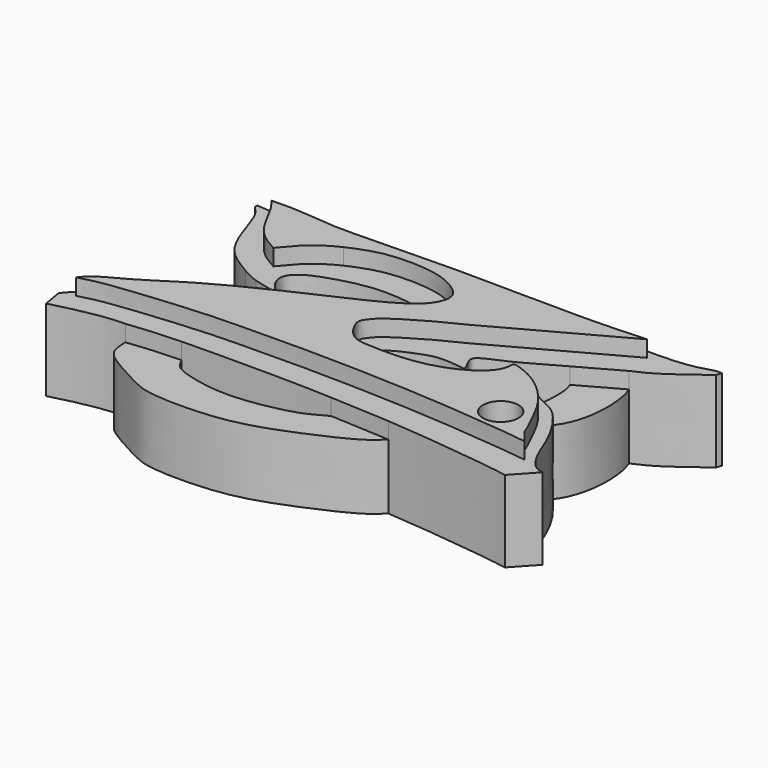
from build123d import *

# Parameters (mm, degrees)
F1_DEPTH = 4
F2_DEPTH = 5
F4_DEPTH = 1
F5_R     = 1.0894578336
F6_DEPTH = 25


with BuildPart() as f1:
    # F0 (on Top) → F1 (new body)
    with BuildSketch(Plane.XY):
        with BuildLine():
            add(Edge.make_bspline(
                [(13.5833919048, 13.3484508842), (13.8571784654, 13.1897348919), (14.1672854841, 13.0099636748), (14.5812343972, 12.8688075387), (14.6309965181, 12.852750787)],
                knots=[0, 0, 0, 0, 0.4341854473, 0.4917843823, 0.4917843823, 0.4917843823, 0.4917843823], degree=3))
            add(Edge.make_bspline(
                [(13.5833919048, 13.3484508842), (13.4404073522, 13.1196457003), (13.1171991231, 12.6024449468), (12.51469385, 11.4028693908), (11.9733802821, 10.0611704595), (12.055718564, 9.3237222113), (12.0936380699, 8.9841028675)],
                knots=[0, 0, 0, 0, 0.2144097452, 0.484660705, 0.7626691858, 1, 1, 1, 1], degree=3))
            add(Edge.make_bspline(
                [(13.8538191095, 10.0085521117), (13.4043243658, 9.7697229673), (12.7489812178, 9.3769129174), (12.0936380699, 8.9841028675)],
                knots=[0.7391911262, 0.7391911262, 0.7391911262, 0.7391911262, 1, 1, 1, 1], degree=3))
            add(Edge.make_bspline(
                [(14.6309965181, 12.852750787), (14.5147707877, 12.6443301613), (14.2737787368, 12.214243931), (13.9709315069, 11.4361729845), (13.7381038118, 10.6371165654), (13.8170437686, 10.2082729303), (13.8538191095, 10.0085521117)],
                knots=[0, 0, 0, 0, 0.2458196727, 0.5112106111, 0.7725679078, 1, 1, 1, 1], degree=3))
        make_face()
    extrude(amount=F1_DEPTH)


with BuildPart() as f1b:
    # F0 (on Top) → F1, piece 2 (new body)
    with BuildSketch(Plane.XY):
        with BuildLine():
            add(Edge.make_bspline(
                [(12.5342691317, 5.4380693473), (13.2624299696, 5.5157233982), (14.2366750689, 5.6196208816), (15.4707894642, 5.6685069834), (15.7955858834, 5.6781713294)],
                knots=[0, 0, 0, 0, 0.1920602096, 0.2569675658, 0.2569675658, 0.2569675658, 0.2569675658], degree=3))
            add(Edge.make_bspline(
                [(12.5342691317, 5.4380693473), (12.5473590633, 5.0487256747), (12.5744306327, 4.243515638), (13.6653424621, 3.4645969357), (15.405553555, 2.5501869179), (16.6725208426, 1.9027207111), (20.9150965242, 1.9103639068), (23.6959030646, 2.7629959679), (26.0404997009, 3.7579135097), (27.8179535983, 4.6222148773), (28.4266237097, 5.1852906368), (28.6907535046, 5.4296349576)],
                knots=[0, 0, 0, 0, 0.0836005985, 0.1728961987, 0.282858145, 0.3786516168, 0.5389406904, 0.678227619, 0.8043732684, 0.9151086154, 1, 1, 1, 1], degree=3))
            add(Edge.make_bspline(
                [(25.0162748018, 5.6213857477), (26.2397122437, 5.5698292426), (27.4652328742, 5.4997321001), (28.6907535046, 5.4296349576)],
                knots=[0.7941828335, 0.7941828335, 0.7941828335, 0.7941828335, 1, 1, 1, 1], degree=3))
            add(Edge.make_bspline(
                [(15.7955858834, 5.6781713294), (15.9101969297, 5.450781957), (16.1508127503, 4.9482455043), (17.150077641, 4.6173420255), (18.6333297992, 4.2408185955), (20.6405193314, 4.2473489687), (22.3654092464, 4.5651575134), (23.8264108136, 4.9299273525), (24.6217717213, 5.4205719877), (25.0162748018, 5.6213857477)],
                knots=[0, 0, 0, 0, 0.105658755, 0.225607729, 0.3766633567, 0.5491181485, 0.7107846641, 0.8586613818, 1, 1, 1, 1], degree=3))
        make_face()
    extrude(amount=F1_DEPTH)


with BuildPart() as f1c:
    # F0 (on Top) → F1, piece 3 (new body)
    with BuildSketch(Plane.XY):
        with BuildLine():
            add(Edge.make_bspline(
                [(33.8113568723, 11.3557390869), (33.9880912398, 11.6099368786), (34.3893916722, 12.1871289959), (34.8245251211, 13.6927558691), (34.7891617396, 15.6203992033), (34.5515894562, 16.3730637613), (34.4493426383, 16.6969969869)],
                knots=[0, 0, 0, 0, 0.2108071895, 0.4786676047, 0.7756279572, 1, 1, 1, 1], degree=3))
            add(Edge.make_bspline(
                [(31.9359255142, 15.3003969652), (32.744829398, 15.758046062), (33.5970860181, 16.2275215244), (34.4493426383, 16.6969969869)],
                knots=[0.761471732, 0.761471732, 0.761471732, 0.761471732, 1, 1, 1, 1], degree=3))
            add(Edge.make_bspline(
                [(31.787995249, 12.3844454065), (31.8698600959, 12.5205362821), (32.0666977973, 12.8472366652), (32.1512152037, 13.8176421063), (32.1118443063, 14.86004242), (31.9835730995, 15.178339957), (31.9359255142, 15.3003969652)],
                knots=[0, 0, 0, 0, 0.2096821819, 0.5017061334, 0.803726388, 1, 1, 1, 1], degree=3))
            add(Edge.make_bspline(
                [(33.8113568723, 11.3557390869), (33.478554241, 11.5188581464), (32.8086673508, 11.8471948517), (32.1310688708, 12.2377157055), (31.787995249, 12.3844454065)],
                knots=[0, 0, 0, 0, 0.2541538028, 0.5115773872, 0.5115773872, 0.5115773872, 0.5115773872], degree=3))
        make_face()
    extrude(amount=F1_DEPTH)


with BuildPart() as f1d:
    # F0 (on Top) → F1, piece 4 (new body)
    with BuildSketch(Plane.XY):
        with BuildLine():
            add(Edge.make_bspline(
                [(33.3365797997, 18.8335012645), (33.1301456827, 19.0218340665), (32.6046385116, 19.5012617865), (30.5001348547, 20.5601405198), (28.4211275309, 20.8129324899), (25.6365396316, 20.6936713873), (23.4218201131, 20.238772844), (21.220505797, 19.4993923173), (20.1208965917, 18.8370736079), (19.597677514, 18.5219272971)],
                knots=[0, 0, 0, 0, 0.0973515258, 0.2478220446, 0.3952328348, 0.5603382257, 0.7122491311, 0.8630815898, 1, 1, 1, 1], degree=3))
            add(Edge.make_bspline(
                [(19.597677514, 18.5219272971), (19.9180850337, 18.506668422), (20.2384925534, 18.4914095469), (20.5656079182, 18.4771689986)],
                knots=[0, 0, 0, 0, 0.0776903926, 0.0776903926, 0.0776903926, 0.0776903926], degree=3))
            add(Edge.make_bspline(
                [(30.0889233747, 18.5219272971), (30.0484786227, 18.6218024753), (29.9149533598, 18.9515350488), (27.9955825006, 19.6947141669), (26.4683814121, 19.8899864551), (25.776868142, 19.9698346847), (24.102641609, 19.853038686), (22.4862995209, 19.2414178097), (22.2764594664, 19.2451158798), (21.3000522135, 18.8012559091), (20.5656079182, 18.4771689986)],
                knots=[0, 0, 0, 0, 0.0722648502, 0.2384939539, 0.3860668998, 0.4814981992, 0.6363346852, 0.7865013742, 0.8396606544, 1, 1, 1, 1], degree=3))
            add(Edge.make_bspline(
                [(30.0889233747, 18.5219272971), (30.2320875133, 18.5225974839), (31.4927425824, 18.5229131458), (33.1633027256, 18.4497336333), (33.3025871313, 18.7582155644), (33.3365797997, 18.8335012645)],
                knots=[0.6998530104, 0.6998530104, 0.6998530104, 0.6998530104, 0.7264315647, 0.9332350161, 1, 1, 1, 1], degree=3))
        make_face()
    extrude(amount=F1_DEPTH)


with BuildPart() as f2:
    # F0 (on Top) → F2 (new body)
    with BuildSketch(Plane.XY):
        with BuildLine():
            add(Edge.make_bspline(
                [(9.8053710535, 18.7840449313), (9.961461022, 18.6255586355), (10.31828404, 18.2632575925), (10.7183797926, 17.1719877951), (11.2360425698, 15.5114422444), (12.0962337131, 14.2205463413), (13.0786338392, 13.6444498024), (13.5833919048, 13.3484508842)],
                knots=[0, 0, 0, 0, 0.1442619141, 0.3297839834, 0.5596520335, 0.77374882, 1, 1, 1, 1], degree=3))
            add(Edge.make_bspline(
                [(13.5833919048, 13.3484508842), (13.8571784654, 13.1897348919), (14.1672854841, 13.0099636748), (14.5812343972, 12.8688075387), (14.6309965181, 12.852750787)],
                knots=[0, 0, 0, 0, 0.4341854473, 0.4917843823, 0.4917843823, 0.4917843823, 0.4917843823], degree=3))
            add(Edge.make_bspline(
                [(14.6309965181, 12.852750787), (15.0700651743, 12.7110764316), (15.608741561, 12.6064426231), (16.1474179476, 12.5018088147)],
                knots=[0.4917843823, 0.4917843823, 0.4917843823, 0.4917843823, 1, 1, 1, 1], degree=3))
            add(Edge.make_bspline(
                [(16.1474179476, 12.5018088147), (15.9296115492, 12.6962834557), (15.4999879281, 13.0798851316), (15.1991295673, 13.9927467515), (15.9622851564, 14.7915262037), (17.3150579019, 15.2905628157), (18.8846358745, 15.708764636), (20.4081698309, 15.8336665141), (21.8713256619, 15.6525521504), (22.9433810109, 15.5301319319), (23.1432109364, 14.8415872083), (22.5566925234, 14.4875922107), (21.7010925514, 13.8818435524), (20.426270448, 13.4111621731), (19.1981831022, 13.0289700414), (18.0975789059, 13.0794601629), (17.453311033, 13.0001405744), (17.1414855868, 12.9617499188)],
                knots=[0, 0, 0, 0, 0.0598308658, 0.1180165202, 0.1807966195, 0.2581193649, 0.340134882, 0.4194897966, 0.498492905, 0.5621516115, 0.6073573639, 0.6565020802, 0.7226886111, 0.7979186995, 0.8706707148, 0.937404667, 1, 1, 1, 1], degree=3))
            add(Edge.make_bspline(
                [(17.1414855868, 12.9617499188), (17.1258751162, 12.8549038377), (17.0905789765, 12.6133189235), (17.2947024239, 12.3417157335), (17.408547923, 12.1902348474)],
                knots=[0, 0, 0, 0, 0.4422713291, 1, 1, 1, 1], degree=3))
            add(Edge.make_bspline(
                [(17.408547923, 12.1902348474), (17.2838523835, 12.0370994035), (16.9728105858, 11.6551168247), (15.6553223716, 11.0545160872), (14.593660693, 10.3611781279), (14.1401053618, 10.1606640143), (13.8538191095, 10.0085521117)],
                knots=[0, 0, 0, 0, 0.147393551, 0.3676599441, 0.5730801847, 0.7391911262, 0.7391911262, 0.7391911262, 0.7391911262], degree=3))
            add(Edge.make_bspline(
                [(13.8538191095, 10.0085521117), (13.4043243658, 9.7697229673), (12.7489812178, 9.3769129174), (12.0936380699, 8.9841028675)],
                knots=[0.7391911262, 0.7391911262, 0.7391911262, 0.7391911262, 1, 1, 1, 1], degree=3))
            add(Edge.make_bspline(
                [(12.0936380699, 8.9841028675), (11.5041381388, 8.6200028566), (10.3173636651, 7.8870009071), (8.50017142, 6.5177128522), (8.1645123181, 6.0783691362), (8.044026792, 5.9206658043)],
                knots=[0, 0, 0, 0, 0.3875189363, 0.7801486605, 1, 1, 1, 1], degree=3))
            add(Edge.make_bspline(
                [(8.044026792, 5.9206658043), (8.1139678756, 5.5150052843), (8.1839089592, 5.1093447643), (8.2538500428, 4.7036842443)],
                knots=[0, 0, 0, 0, 1.2349372105, 1.2349372105, 1.2349372105, 1.2349372105], degree=3))
            add(Edge.make_bspline(
                [(8.2538500428, 4.7036842443), (8.7128778249, 4.8235567444), (9.6777944726, 5.0755392505), (11.4653108436, 5.4101287825), (12.2115837874, 5.4296349576), (12.5342691317, 5.4380693473)],
                knots=[0, 0, 0, 0, 0.3399454439, 0.7145951311, 1, 1, 1, 1], degree=3))
            add(Edge.make_bspline(
                [(12.5342691317, 5.4380693473), (13.2624299696, 5.5157233982), (14.2366750689, 5.6196208816), (15.4707894642, 5.6685069834), (15.7955858834, 5.6781713294)],
                knots=[0, 0, 0, 0, 0.1920602096, 0.2569675658, 0.2569675658, 0.2569675658, 0.2569675658], degree=3))
            add(Edge.make_bspline(
                [(15.7955858834, 5.6781713294), (16.7171000804, 5.7055910654), (19.2886268006, 5.7201576335), (22.4672129004, 5.7171183536), (24.5645840423, 5.6404203106), (25.0162748018, 5.6213857477)],
                knots=[0.2569675658, 0.2569675658, 0.2569675658, 0.2569675658, 0.4411230756, 0.71819553, 0.7941828335, 0.7941828335, 0.7941828335, 0.7941828335], degree=3))
            add(Edge.make_bspline(
                [(25.0162748018, 5.6213857477), (26.2397122437, 5.5698292426), (27.4652328742, 5.4997321001), (28.6907535046, 5.4296349576)],
                knots=[0.7941828335, 0.7941828335, 0.7941828335, 0.7941828335, 1, 1, 1, 1], degree=3))
            add(Edge.make_bspline(
                [(28.6907535046, 5.4296349576), (29.5325258915, 5.3655255831), (31.3887897641, 5.2241525498), (35.5072567876, 4.7303507793), (36.2881113466, 4.5950275155), (36.5448743105, 4.5505301096)],
                knots=[0, 0, 0, 0, 0.3577012143, 0.7887973657, 1, 1, 1, 1], degree=3))
            add(Edge.make_bspline(
                [(36.5448743105, 4.5505301096), (36.9083769619, 4.9461789119), (37.4241247773, 5.5001367194), (37.7876274288, 5.8957855217)],
                knots=[0, 0, 0, 0, 1.8314331647, 1.8314331647, 1.8314331647, 1.8314331647], degree=3))
            add(Edge.make_bspline(
                [(37.7876274288, 5.8957855217), (37.6096621735, 5.9307652), (37.1664892962, 6.0178723415), (36.3700584305, 7.1508070147), (35.7476293001, 9.1112800164), (34.4495230995, 10.948320411), (33.9804051709, 11.247815115), (33.8113568723, 11.3557390869)],
                knots=[0, 0, 0, 0, 0.1326897459, 0.3304268375, 0.5919177829, 0.8529461352, 1, 1, 1, 1], degree=3))
            add(Edge.make_bspline(
                [(33.8113568723, 11.3557390869), (33.478554241, 11.5188581464), (32.8086673508, 11.8471948517), (32.1310688708, 12.2377157055), (31.787995249, 12.3844454065)],
                knots=[0, 0, 0, 0, 0.2541538028, 0.5115773872, 0.5115773872, 0.5115773872, 0.5115773872], degree=3))
            add(Edge.make_bspline(
                [(31.787995249, 12.3844454065), (31.463078568, 12.5234095368), (30.8083582693, 12.7123580024), (30.1157510846, 12.7693201604), (29.7688636929, 12.7978492528)],
                knots=[0.5115773872, 0.5115773872, 0.5115773872, 0.5115773872, 0.7553770016, 1, 1, 1, 1], degree=3))
            add(Edge.make_bspline(
                [(29.7688636929, 12.7978492528), (29.7169343879, 12.7681754529), (29.6650050829, 12.7385016531), (29.6130757779, 12.7088278532)],
                knots=[0, 0, 0, 0, 0.1794287715, 0.1794287715, 0.1794287715, 0.1794287715], degree=3))
            add(Edge.make_bspline(
                [(29.6130757779, 12.7088278532), (29.668443653, 12.6509011713), (29.7902265658, 12.5234901043), (30.0723496858, 12.2908862513), (30.1669301786, 11.8760687013), (30.0622047888, 11.6396234383), (29.932198379, 11.4101044082), (29.6482233276, 11.2060314714), (29.3847995408, 10.9008219508), (27.9125160314, 10.3263350222), (26.4270267271, 9.8966090884), (24.7200178992, 10.0228055983), (23.6309933104, 9.8506003577), (23.3647221531, 10.2812973178), (23.3100051838, 10.4759812352), (23.534997484, 10.7920690751), (23.9854624242, 11.0511775172), (24.5960016051, 11.4498840916), (25.474023765, 11.7695010194), (26.1632792709, 12.0612420142), (27.0656517081, 12.0774577867), (27.8220253395, 11.9865544016), (28.058907733, 11.9511670635), (28.1516481191, 11.9373127818)],
                knots=[0, 0, 0, 0, 0.0309668549, 0.0681123084, 0.1070273306, 0.1378042471, 0.1691017336, 0.2043325382, 0.2426089545, 0.3183417893, 0.3975695394, 0.4788850038, 0.5408857155, 0.5798783997, 0.6060972636, 0.6421649005, 0.6867809482, 0.7397959136, 0.7993515173, 0.8528213012, 0.911566941, 0.9653781106, 1, 1, 1, 1], degree=3))
            add(Edge.make_bspline(
                [(28.1516481191, 11.9373127818), (28.109050219, 12.060779038), (28.021179371, 12.3154649406), (27.7636956749, 12.6925751974), (27.7121224841, 13.2195011393), (29.3878567583, 13.8183849839), (30.8592339353, 14.6889969659), (31.815935261, 15.2325107402), (31.9359255142, 15.3003969652)],
                knots=[0, 0, 0, 0, 0.0955070564, 0.1970117312, 0.2891868963, 0.4771004337, 0.7260892003, 0.761471732, 0.761471732, 0.761471732, 0.761471732], degree=3))
            add(Edge.make_bspline(
                [(31.9359255142, 15.3003969652), (32.744829398, 15.758046062), (33.5970860181, 16.2275215244), (34.4493426383, 16.6969969869)],
                knots=[0.761471732, 0.761471732, 0.761471732, 0.761471732, 1, 1, 1, 1], degree=3))
            add(Edge.make_bspline(
                [(34.4493426383, 16.6969969869), (34.7964990039, 16.8478537676), (35.6741745015, 17.2292476095), (37.1023788206, 18.3215923238), (37.965670228, 18.9818702638)],
                knots=[0, 0, 0, 0, 0.3955406829, 1, 1, 1, 1], degree=3))
            add(Edge.make_bspline(
                [(37.965670228, 18.9818702638), (38.0002893507, 19.085727632), (38.0349084735, 19.1895850003), (38.0695275962, 19.2934423685)],
                knots=[0, 0, 0, 0, 0.3284258354, 0.3284258354, 0.3284258354, 0.3284258354], degree=3))
            add(Edge.make_bspline(
                [(38.0695275962, 19.2934423685), (37.9647416762, 19.3047843145), (37.659813706, 19.3377894794), (36.3319998886, 18.8231706122), (34.4689194514, 18.8295960335), (33.3365797997, 18.8335012645)],
                knots=[0, 0, 0, 0, 0.1703659819, 0.4957665399, 1, 1, 1, 1], degree=3))
            add(Edge.make_bspline(
                [(30.0889233747, 18.5219272971), (30.2320875133, 18.5225974839), (31.4927425824, 18.5229131458), (33.1633027256, 18.4497336333), (33.3025871313, 18.7582155644), (33.3365797997, 18.8335012645)],
                knots=[0.6998530104, 0.6998530104, 0.6998530104, 0.6998530104, 0.7264315647, 0.9332350161, 1, 1, 1, 1], degree=3))
            add(Edge.make_bspline(
                [(20.5656079182, 18.4771689986), (21.1284226153, 18.4526675818), (22.8207847472, 18.390259129), (26.2631361011, 18.4011181469), (28.828914747, 18.5160288846), (30.0889233747, 18.5219272971)],
                knots=[0.0776903926, 0.0776903926, 0.0776903926, 0.0776903926, 0.2113597321, 0.465931247, 0.6998530104, 0.6998530104, 0.6998530104, 0.6998530104], degree=3))
            add(Edge.make_bspline(
                [(19.597677514, 18.5219272971), (19.9180850337, 18.506668422), (20.2384925534, 18.4914095469), (20.5656079182, 18.4771689986)],
                knots=[0, 0, 0, 0, 0.0776903926, 0.0776903926, 0.0776903926, 0.0776903926], degree=3))
            add(Edge.make_bspline(
                [(19.597677514, 18.5219272971), (18.7872085057, 18.5722879206), (17.0230818431, 18.6819065707), (13.4937614576, 18.6135988791), (11.0479650084, 18.8578021077), (9.8053710535, 18.9818702638)],
                knots=[0, 0, 0, 0, 0.2948225714, 0.6417325693, 1, 1, 1, 1], degree=3))
            add(Edge.make_bspline(
                [(9.8053710535, 18.9818702638), (9.8053710535, 18.9159284863), (9.8053710535, 18.8499867088), (9.8053710535, 18.7840449313)],
                knots=[0, 0, 0, 0, 0.1978253325, 0.1978253325, 0.1978253325, 0.1978253325], degree=3))
        make_face()
    extrude(amount=F2_DEPTH)

    # F3 (on face) → F4 (join)
    with BuildSketch(Plane.XY.offset(5)):
        with BuildLine():
            add(Edge.make_bspline(
                [(14.3512114882, 14.5206460729), (14.0463907136, 14.687531452), (13.4055627802, 15.0383763469), (12.519349354, 15.9690281587), (11.8660648644, 17.4727664152), (11.4110891461, 18.0440643271), (11.209170334, 18.2976070791)],
                knots=[0, 0, 0, 0, 0.2303682411, 0.4843055861, 0.7711341523, 1, 1, 1, 1], degree=3))
            add(Edge.make_bspline(
                [(16.9234499335, 16.6807547212), (16.7513059203, 16.5991867674), (16.3490709886, 16.408593556), (15.4218927022, 15.7791294247), (14.8435585023, 15.085729253), (14.5090136338, 14.7017608876), (14.3512114882, 14.5206460729)],
                knots=[0, 0, 0, 0, 0.2156549513, 0.5039034061, 0.7659951945, 1, 1, 1, 1], degree=3))
            add(Edge.make_bspline(
                [(8.8751763105, 6.2213600613), (9.0247538243, 6.4116696287), (9.392486237, 6.8795407321), (10.9391676768, 7.5957391539), (12.8981059979, 8.9058225818), (15.1151509457, 10.1983368403), (18.7758013428, 11.94858853), (22.2332871001, 13.4689940793), (23.9030356917, 14.6333591475), (24.3825768032, 15.9686925152), (23.471872231, 16.7963472778), (22.0218195487, 17.4708509727), (18.9071553172, 17.5481178105), (17.5459463229, 16.9529374736), (16.9234499335, 16.6807547212)],
                knots=[0, 0, 0, 0, 0.0510693449, 0.1255526512, 0.2145068167, 0.3074457217, 0.4250368919, 0.538836991, 0.6199344779, 0.6819615261, 0.7405684242, 0.8139804773, 0.9149311518, 1, 1, 1, 1], degree=3))
            add(Edge.make_bspline(
                [(36.3048315048, 6.3641797751), (36.0180171335, 6.4039917562), (35.2718186224, 6.5075696935), (32.686299285, 6.7696010702), (28.9803804893, 7.0596721417), (24.3298441943, 7.2139082285), (21.2362778349, 7.2414849458), (16.9593864846, 7.1694115346), (16.7802084329, 7.1511097717), (15.3463465663, 7.0926827254), (12.2657052832, 6.8147449632), (12.1746170875, 6.7667737252), (10.208681879, 6.5902193392), (9.3066807697, 6.3407179605), (8.8751763105, 6.2213600613)],
                knots=[0, 0, 0, 0, 0.0585207203, 0.1522520443, 0.2693377066, 0.3953076664, 0.5083857424, 0.6249413707, 0.6492586256, 0.7205866212, 0.8241792001, 0.8473926572, 0.9269948249, 1, 1, 1, 1], degree=3))
            add(Edge.make_bspline(
                [(30.9617184103, 12.3121719807), (31.1185359464, 12.2708490863), (31.4962879774, 12.1713078762), (32.47210051, 11.7323590397), (33.6364740919, 10.7984395312), (34.5617534068, 9.5557049243), (35.1182217837, 8.3361902877), (35.6342992693, 7.3405618158), (35.6070921194, 7.1527791615), (36.2271230489, 6.4783506265), (36.2876188994, 6.3894688867), (36.3048315048, 6.3641797751)],
                knots=[0, 0, 0, 0, 0.0886992179, 0.2136643041, 0.3639851242, 0.5157569816, 0.6622402208, 0.7851805019, 0.8404836831, 0.9546135579, 1, 1, 1, 1], degree=3))
            add(Edge.make_bspline(
                [(30.8693069965, 12.2281610966), (30.9001108011, 12.2561647246), (30.9309146057, 12.2841683527), (30.9617184103, 12.3121719807)],
                knots=[0, 0, 0, 0, 0.1248907445, 0.1248907445, 0.1248907445, 0.1248907445], degree=3))
            add(Edge.make_bspline(
                [(34.271761775, 18.2976070791), (33.450589624, 17.848209308), (31.5444876948, 16.8050687711), (25.7621252567, 13.6326155804), (25.6585571865, 13.6810240903), (23.0287167362, 12.1989478736), (22.6431278545, 11.685707099), (22.2174669285, 11.1727766497), (22.4295131444, 10.6351271113), (22.7450897326, 10.0814483421), (23.3857547165, 9.5083261322), (24.7279739021, 9.4667722558), (26.8483260116, 9.4312746931), (29.3610827818, 10.130228084), (30.8191444658, 11.3787465658), (30.8550861785, 11.9873564706), (30.8693069965, 12.2281610966)],
                knots=[0, 0, 0, 0, 0.1102788305, 0.2559788362, 0.2846623585, 0.3835879997, 0.4359470726, 0.4794706532, 0.5218446793, 0.5690066891, 0.6211813244, 0.6875620843, 0.7741321637, 0.8703860764, 0.9487165224, 1, 1, 1, 1], degree=3))
            add(Edge.make_bspline(
                [(11.209170334, 18.2976070791), (11.7141853682, 18.314099587), (12.8225981057, 18.3502975307), (15.1345725805, 18.0482366168), (16.9689573388, 18.1214436178), (19.4146705967, 18.1270079233), (21.8754721477, 18.2452373659), (26.8634843607, 18.1859326342), (30.9190063847, 18.1267388237), (33.2008352898, 18.2430288833), (34.271761775, 18.2976070791)],
                knots=[0, 0, 0, 0, 0.0948861272, 0.2082571505, 0.3111941204, 0.4254142016, 0.5442966861, 0.7111276245, 0.8644240692, 1, 1, 1, 1], degree=3))
        make_face()
    extrude(amount=F4_DEPTH)

    # F5 (on face) → F6 (cut)
    with BuildSketch(Plane.XY.offset(6)):
        with Locations((33.4742255509, 8.0611836165)):
            Circle(F5_R)
    extrude(amount=-F6_DEPTH, mode=Mode.SUBTRACT)


solid = Compound([f1.part, f1b.part, f1c.part, f1d.part, f2.part])
